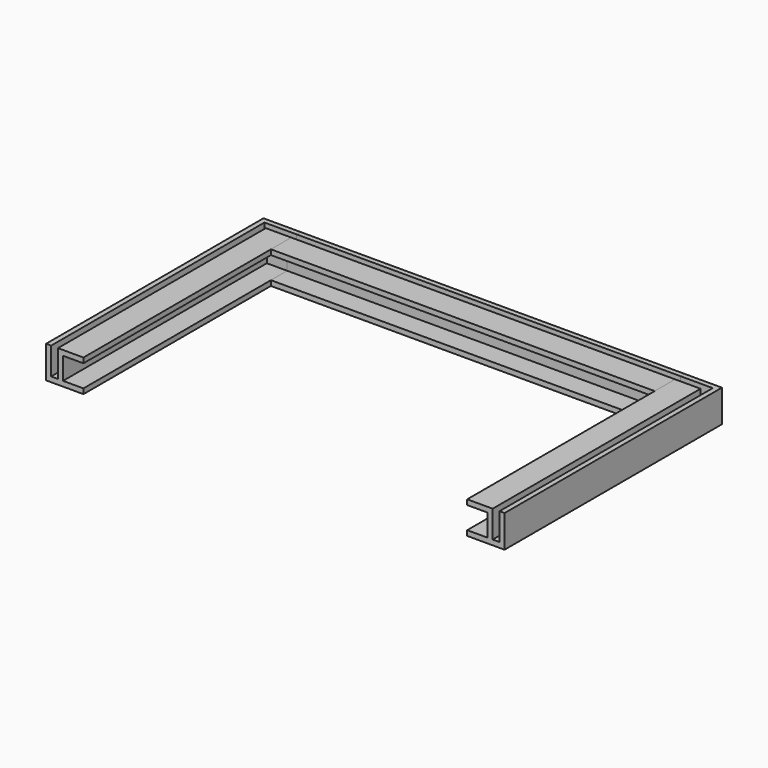
from build123d import *

# Parameters (mm, degrees)
F1_DEPTH = 160
F2_W     = 10
F2_H     = 13
F3_DEPTH = 12
F4_W     = 4
F4_H     = 16
F5_DEPTH = 3
F6_W     = 4
F6_H     = 16
F7_DEPTH = 19
F9_DEPTH = 226


with BuildPart() as f1:
    # F0 (on Front) → F1 (new body)
    with BuildSketch(Plane.XZ):
        Polygon((0, 19), (0, 0), (22, 0), (22, 3), (10, 3), (10, 16), (22, 16), (22, 19), (7, 19), (7, 3), (3, 3), (3, 19), align=None)
    extrude(amount=F1_DEPTH)

    # F2 (on face) → F3 (join, through all)
    with BuildSketch(Plane.YZ.offset(10)):
        with Locations((-5, 9.5)):
            Rectangle(F2_W, F2_H)
    extrude(amount=F3_DEPTH)

    # F4 (on face) → F5 (join)
    with BuildSketch(Plane(origin=(0, 0, 0), x_dir=(-1, 0, 0), z_dir=(0, 1, 0))):
        with Locations((-5, 11)):
            Rectangle(F4_W, F4_H)
    extrude(amount=-F5_DEPTH)

    # F6 (on face) → F7 (cut, through all)
    with BuildSketch(Plane.YZ.offset(22)):
        with Locations((-5, 11)):
            Rectangle(F6_W, F6_H)
    extrude(amount=-F7_DEPTH, mode=Mode.SUBTRACT)


with BuildPart() as f9:
    # F8 (on face) → F9 (new body)
    with BuildSketch(Plane.YZ.offset(22)):
        Polygon((0, 0), (0, 19), (-3, 19), (-3, 3), (-7, 3), (-7, 19), (-22, 19), (-22, 16), (-10, 16), (-10, 3), (-22, 3), (-22, 0), align=None)
    extrude(amount=F9_DEPTH)


with BuildPart() as f12_1:
    # F12: instance of F1
    add(f1.part.mirror(Plane.YZ.offset(135)))


solid = Compound([f1.part, f9.part, f12_1.part])
